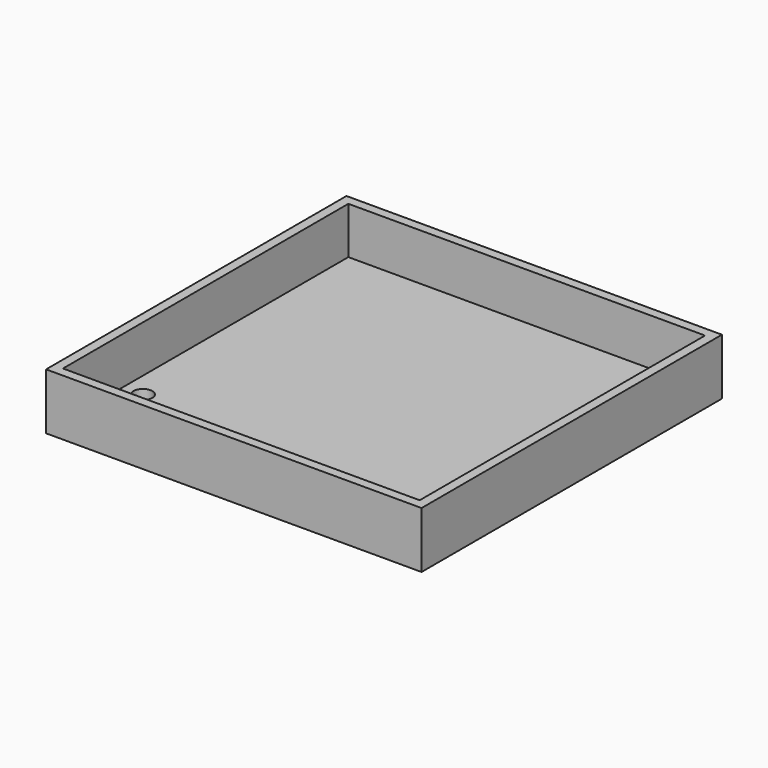
from build123d import *

# Parameters (mm, degrees)
F0_W     = 50.8
F0_H     = 50.8
F1_DEPTH = 7.62
F2_T     = -1.27
F4_DEPTH = 25.4


with BuildPart() as f1:
    # F0 (on Top) → F1 (new body)
    with BuildSketch(Plane.XY):
        with Locations((-25.4, 25.4)):
            Rectangle(F0_W, F0_H)
    extrude(amount=F1_DEPTH)

    # F2
    f2_openings = [f1.faces().sort_by_distance(p)[0] for p in [
        (-25.4, 25.4, 7.62),
    ]]
    offset(amount=F2_T, openings=f2_openings)

    # F3 (on face) → F4 (cut)
    with BuildSketch(Plane.XY.offset(1.27)):
        with BuildLine():
            ThreePointArc((-45.569412, 11.43), (-47.737438, 12.328026), (-46.839412, 10.16))
            ThreePointArc((-46.839412, 10.16), (-45.941387, 10.531974), (-45.569412, 11.43))
        make_face()
        with BuildLine():
            ThreePointArc((-46.839412, 5.08), (-48.109412, 3.81), (-46.839412, 2.54))
            Line((-46.839412, 2.54), (-46.839412, 3.81))
            Line((-46.839412, 3.81), (-46.839412, 5.08))
        make_face()
        with BuildLine():
            Line((-46.839412, 3.81), (-46.839412, 2.54))
            ThreePointArc((-46.839412, 2.54), (-45.941387, 2.911974), (-45.569412, 3.81))
            ThreePointArc((-45.569412, 3.81), (-45.941387, 4.708026), (-46.839412, 5.08))
            Line((-46.839412, 5.08), (-46.839412, 3.81))
        make_face()
    extrude(amount=-F4_DEPTH, mode=Mode.SUBTRACT)


solid = f1.part
